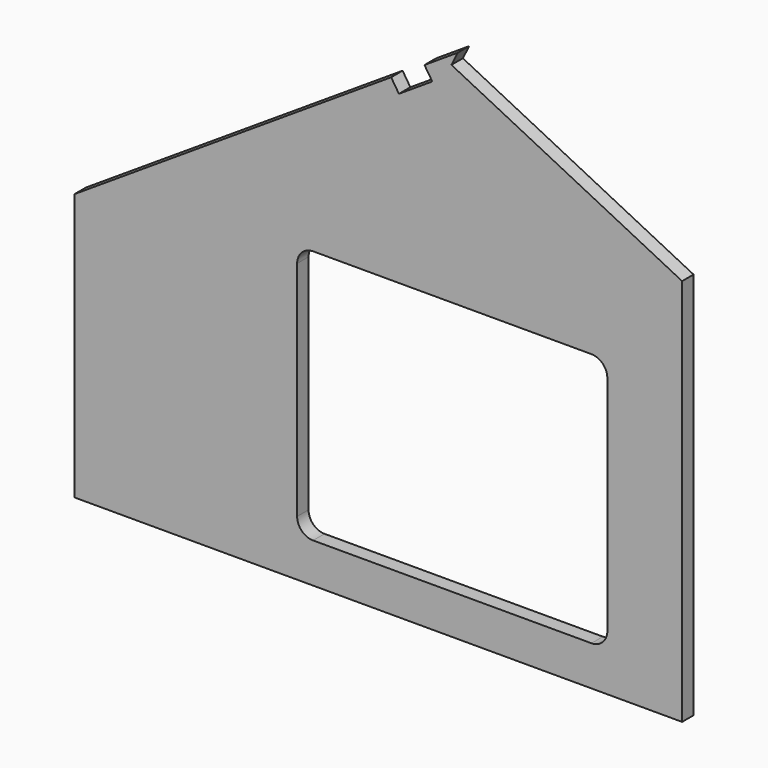
from build123d import *

# Parameters (mm, degrees)
F1_DEPTH  = 18
F4_W      = 390
F4_H      = 320
F5_DEPTH  = 18
F6_R      = 20
F8_DEPTH  = 25
F10_DEPTH = 18


with BuildPart() as f1:
    # F0 (on Front) → F1 (new body)
    with BuildSketch(Plane.XZ):
        Polygon((500, 1000), (18, 686.7), (18, 351), (782, 351), (782, 859), align=None)
    extrude(amount=F1_DEPTH)

    # F4 (on face) → F5 (cut, through all)
    with BuildSketch(Plane.XZ.offset(18)):
        with Locations((493, 561)):
            Rectangle(F4_W, F4_H)
    extrude(amount=-F5_DEPTH, mode=Mode.SUBTRACT)

    # F6
    f6_edges = [f1.edges().sort_by_distance(p)[0] for p in [
        (298, -9, 721),
        (688, -9, 721),
        (298, -9, 401),
        (688, -9, 401),
    ]]
    fillet(f6_edges, radius=F6_R)

    # F7 (on face) → F8 (cut)
    with BuildSketch(Plane.XZ.offset(18)):
        Polygon((458.077819, 972.750582), (416.155638, 945.501165), (425.965429, 930.40918), (467.887609, 957.658597), align=None)
    extrude(amount=-F8_DEPTH, mode=Mode.SUBTRACT)

    # F9 (on face) → F10 (cut, through all)
    with BuildSketch(Plane.XZ.offset(18)):
        Polygon((857.770876, 821.114562), (500, 1000), (491.950155, 983.900311), (849.721032, 805.014872), align=None)
    extrude(amount=-F10_DEPTH, mode=Mode.SUBTRACT)


solid = f1.part
